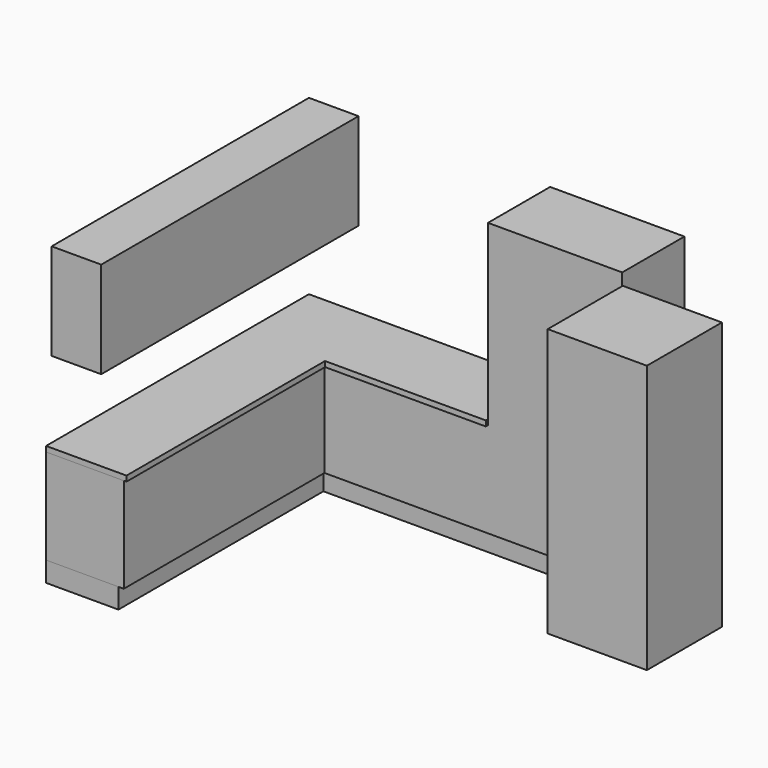
from build123d import *

# Parameters (mm, degrees)
F1_START = 150
F0_W     = 1002
F0_H     = 40
F0_H_2   = 540
F1_DEPTH = 2040
F2_START = 150
F0_W_2   = 370
F0_H_3   = 2400
F2_DEPTH = 710
F3_START = 860
F3_DEPTH = 40
F4_DEPTH = 150
F5_START = 150
F5_DEPTH = 2000
F6_START = 1470
F6_DEPTH = 720


with BuildPart() as f1:
    # F0 (on Top) → F1 (new body)
    with BuildSketch(Plane.XY.offset(F1_START)):
        with Locations((2301, -560)):
            Rectangle(F0_W, F0_H)
        with Locations((2301, -270)):
            Rectangle(F0_W, F0_H_2)
    extrude(amount=F1_DEPTH)

    # F0 (on Top) → F2 (join)
    with BuildSketch(Plane.XY.offset(F2_START)):
        Polygon((1800, -580), (1800, -540), (540, -540), (540, -2452), (580, -2452), (580, -580), align=None)
        Polygon((1800, 0), (370, 0), (370, -2400), (0, -2400), (0, -2452), (540, -2452), (540, -540), (1800, -540), align=None)
        with Locations((185, -1200)):
            Rectangle(F0_W_2, F0_H_3)
    extrude(amount=F2_DEPTH)


with BuildPart() as f3:
    # F0 (on Top) → F3 (new body)
    with BuildSketch(Plane.XY.offset(F3_START)):
        Polygon((1800, -580), (1800, -540), (540, -540), (540, -2452), (580, -2452), (580, -580), align=None)
        Polygon((1800, -600), (1800, -580), (580, -580), (580, -2452), (600, -2452), (600, -600), align=None)
        Polygon((1800, 0), (370, 0), (370, -2400), (0, -2400), (0, -2452), (540, -2452), (540, -540), (1800, -540), align=None)
        with Locations((185, -1200)):
            Rectangle(F0_W_2, F0_H_3)
    extrude(amount=F3_DEPTH)


with BuildPart() as f4:
    # F0 (on Top) → F4 (new body, through all)
    with BuildSketch(Plane.XY):
        Polygon((1800, 0), (370, 0), (370, -2400), (0, -2400), (0, -2452), (540, -2452), (540, -540), (1800, -540), align=None)
        with Locations((2301, -270)):
            Rectangle(F0_W, F0_H_2)
        with Locations((185, -1200)):
            Rectangle(F0_W_2, F0_H_3)
    extrude(amount=F4_DEPTH)


with BuildPart() as f5:
    # F0 (on Top) → F5 (new body)
    with BuildSketch(Plane.XY.offset(F5_START)):
        Polygon((3602, -650), (3022, -650), (2862, -650), (2862, -1350), (3022, -1350), (3602, -1350), align=None)
    extrude(amount=F5_DEPTH)


with BuildPart() as f6:
    # F0 (on Top) → F6 (new body)
    with BuildSketch(Plane.XY.offset(F6_START)):
        with Locations((185, -1200)):
            Rectangle(F0_W_2, F0_H_3)
    extrude(amount=F6_DEPTH)


solid = Compound([f1.part, f3.part, f4.part, f5.part, f6.part])
